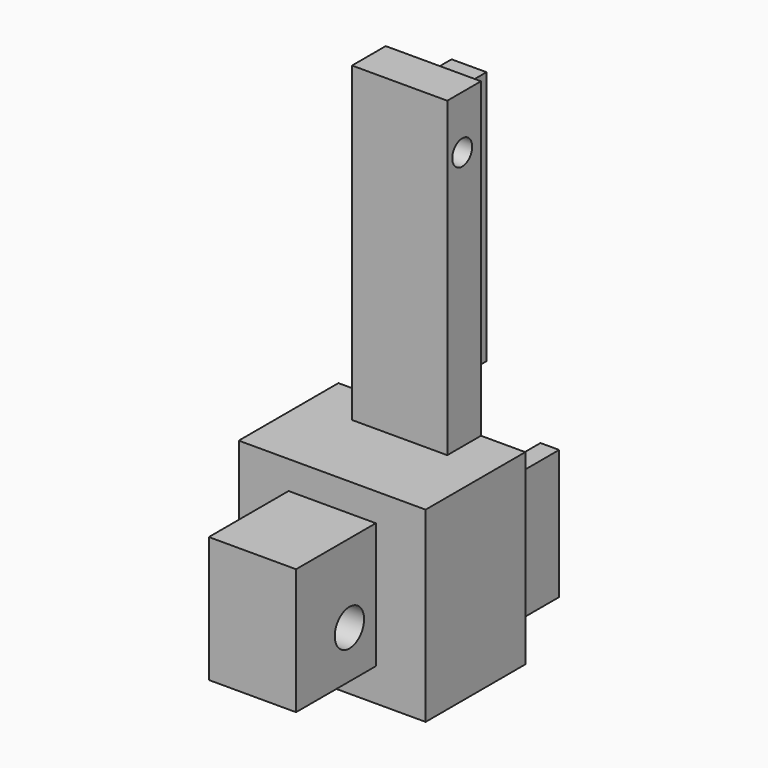
from build123d import *

# Parameters (mm, degrees)
F0_R       = 12.7
F1_DEPTH   = 25.4
F2_W       = 19.4218531251
F2_H       = 8.5854552031
F3_DEPTH   = 63.6221766472
F4_W       = 23.9879162983
F4_H       = 23.1030732393
F1_FACE1_W = 38.1
F1_FACE1_H = 38.1
F5_DEPTH   = 18.6139512807
F6_R       = 2.54
F7_DEPTH   = 25.4
F8_W       = 3.81
F8_H       = 26.416
F9_DEPTH   = 10.4394
F10_W      = 17.78
F10_H      = 25.6636217237
F11_DEPTH  = 20.32
F12_R      = 3.7416241703
F13_DEPTH  = 25.4
F14_W      = 7.112
F14_H      = 51.8768767775
F15_DEPTH  = 10.4394


with BuildPart() as f1:
    # F0 (on Front) → F1 (new body)
    with BuildSketch(Plane.XZ):
        Polygon((42.4058387152, -38.0295165001), (4.3058387152, -38.0295165001), (4.3058387152, -76.1295165001), (42.4058387152, -76.1295165001), (42.4058387152, -57.0795165001), align=None)
        with Locations((29.7058387152, -57.0795165001)):
            Circle(F0_R, mode=Mode.SUBTRACT)
        with Locations((29.7058387152, -57.0795165001)):
            Circle(F0_R)
    extrude(amount=-F1_DEPTH)

    # F2 (on face) → F3 (join)
    with BuildSketch(Plane.XY.offset(-38.0295165001)):
        with Locations((23.6573927104, 21.1072723985)):
            Rectangle(F2_W, F2_H)
    extrude(amount=F3_DEPTH)

    # F4 (on face) + F1_face1 (on face) → F5 (cut)
    with BuildSketch(Plane(origin=(0, 25.4, 0), x_dir=(-1, 0, 0), z_dir=(0, 1, 0))):
        with Locations((-23.0544968509, -56.7404404283)):
            Rectangle(F4_W, F4_H)
    with BuildSketch(Plane(origin=(23.3558387152, 0, -57.0795165001), x_dir=(1, 0, 0), z_dir=(0, -1, 0))):
        Rectangle(F1_FACE1_W, F1_FACE1_H)
    extrude(amount=-F5_DEPTH, dir=(0, 1, 0), mode=Mode.SUBTRACT)

    # F6 (on face) → F7 (cut)
    with BuildSketch(Plane.YZ.offset(33.368319273)):
        with Locations((20.6245447969, 14.7618185729)):
            Circle(F6_R)
    extrude(amount=-F7_DEPTH, mode=Mode.SUBTRACT)

    # F8 (on face) → F9 (join)
    with BuildSketch(Plane(origin=(0, 25.4, 0), x_dir=(-1, 0, 0), z_dir=(0, 1, 0))):
        with Locations((-7.2288869413, -55.5555165001)):
            Rectangle(F8_W, F8_H)
        with Locations((-39.0500968931, -55.5555165001)):
            Rectangle(F8_W, F8_H)
    extrude(amount=F9_DEPTH)

    # F10 (on face) → F11 (join)
    with BuildSketch(Plane.XZ):
        with Locations((23.3558387152, -56.6011555493)):
            Rectangle(F10_W, F10_H)
    extrude(amount=F11_DEPTH)

    # F12 (on face) → F13 (cut)
    with BuildSketch(Plane.YZ.offset(32.2458387152)):
        with Locations((-6.7241610959, -59.7809664111)):
            Circle(F12_R)
    extrude(amount=-F13_DEPTH, mode=Mode.SUBTRACT)

    # F14 (on face) → F15 (join)
    with BuildSketch(Plane(origin=(0, 25.4, 0), x_dir=(-1, 0, 0), z_dir=(0, 1, 0))):
        with Locations((-22.5824661479, -5.3084390238)):
            Rectangle(F14_W, F14_H)
    extrude(amount=F15_DEPTH)


solid = f1.part
